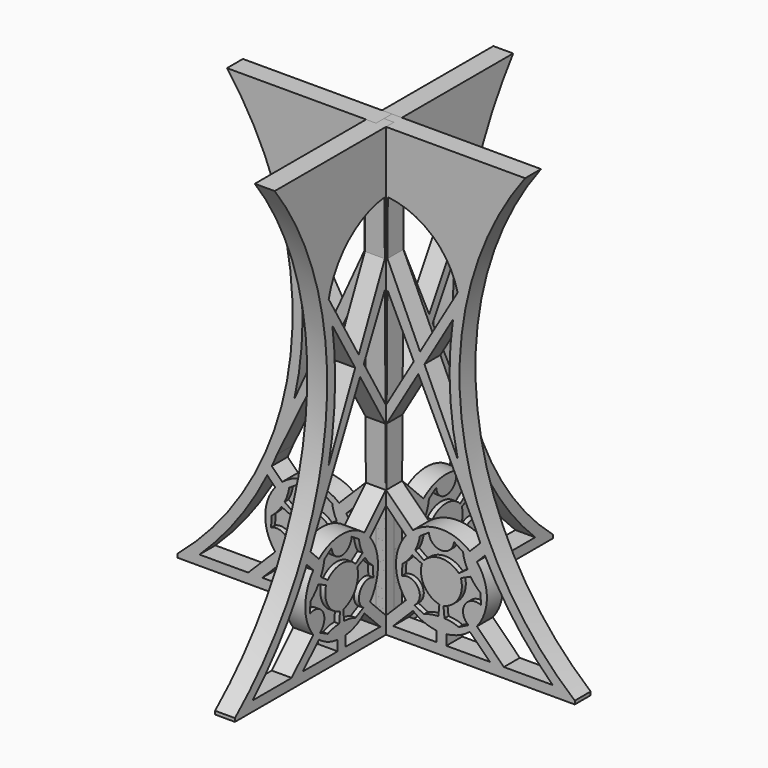
from build123d import *

# Parameters (mm, degrees)
F1_DEPTH      = 2
F1_DEPTH_BACK = 2
F3_COUNT      = 4
F3_ANGLE      = 270
F4_R          = 8.718741745
F6_DEPTH      = 1
F6_DEPTH_BACK = 1
F7_COUNT      = 4
F7_ANGLE      = 270


with BuildPart() as f1:
    # F0 (on Right) → F1 (new body, two sides)
    with BuildSketch(Plane.YZ) as f1_sk:
        with BuildLine():
            Line((0, 90), (-30, 90))
            ThreePointArc((-30, 90), (-17.2003120889, 43.34622274), (-40, 0.6779537991))
            Line((-40, 0.6779537991), (-40, 0))
            Line((-40, 0), (0, 0))
            Line((0, 0), (0, 90))
        make_face()
        with BuildLine():
            Line((-25.7327414086, 2), (-35.5405993869, 2))
            ThreePointArc((-35.5405993869, 2), (-27.9283935316, 10.6626442463), (-21.9059731011, 20.4971516301))
            Line((-21.9059731011, 20.4971516301), (-20.2955077074, 18.8856066293))
            ThreePointArc((-20.2955077074, 18.8856066293), (-22.3105750639, 13.1583554739), (-20.2993462482, 7.4297552174))
            Line((-20.2993462482, 7.4297552174), (-25.7327414086, 2))
        make_face(mode=Mode.SUBTRACT)
        with BuildLine():
            Line((-14.1552877889, 2), (-22.9033660792, 2))
            Line((-22.9033660792, 2), (-18.8856066293, 6.0150678704))
            ThreePointArc((-18.8856066293, 6.0150678704), (-16.6602817808, 4.6974918813), (-14.1552877889, 4.0547771165))
            Line((-14.1552877889, 4.0547771165), (-14.1552877889, 2))
        make_face(mode=Mode.SUBTRACT)
        with BuildLine():
            Line((-16.6618152555, 6.1222817374), (-18.6122404521, 7.0947278683))
            ThreePointArc((-18.6122404521, 7.0947278683), (-17.8389383596, 10.4511808711), (-21.1323629729, 11.4597081156))
            Line((-21.1323629729, 11.4597081156), (-20.9993134278, 13.6350489495))
            ThreePointArc((-20.9993134278, 13.6350489495), (-19.9158795248, 14.6446345056), (-19.0341370726, 15.8344337598))
            Line((-19.0341370726, 15.8344337598), (-17.0775409464, 14.9427615336))
            ThreePointArc((-17.0775409464, 14.9427615336), (-16.6204800926, 11.1546580796), (-13.5684166961, 8.864780042))
            Line((-13.5684166961, 8.864780042), (-13.7745039595, 6.7244819787))
            ThreePointArc((-13.7745039595, 6.7244819787), (-15.2457715651, 6.5557702426), (-16.6618152555, 6.1222817374))
        make_face(mode=Mode.SUBTRACT)
        with BuildLine():
            Line((-7.8956546758, 16.9069476282), (-9.6461635386, 15.658321791))
            ThreePointArc((-9.6461635386, 15.658321791), (-13.1552877889, 17.1565472076), (-16.6644120392, 15.658321791))
            Line((-16.6644120392, 15.658321791), (-18.414920902, 16.9069476282))
            ThreePointArc((-18.414920902, 16.9069476282), (-17.8253957486, 18.2654586185), (-17.4927859612, 19.7085326798))
            Line((-17.4927859612, 19.7085326798), (-15.6754103097, 20.9114273828))
            ThreePointArc((-15.6754103097, 20.9114273828), (-13.1552877889, 18.5635016245), (-10.6351652681, 20.9114273828))
            Line((-10.6351652681, 20.9114273828), (-8.8177896166, 19.7085326798))
            ThreePointArc((-8.8177896166, 19.7085326798), (-8.4851798292, 18.2654586185), (-7.8956546758, 16.9069476282))
        make_face(mode=Mode.SUBTRACT)
        with BuildLine():
            Line((-7.4297552174, 6.0112293296), (-3.4212130927, 2))
            Line((-3.4212130927, 2), (-12.1552877889, 2))
            Line((-12.1552877889, 2), (-12.1552877889, 4.0547771165))
            ThreePointArc((-12.1552877889, 4.0547771165), (-9.6531279684, 4.6963179291), (-7.4297552174, 6.0112293296))
        make_face(mode=Mode.SUBTRACT)
        with BuildLine():
            Line((-5.31126215, 13.6350489495), (-5.1782126049, 11.4597081156))
            ThreePointArc((-5.1782126049, 11.4597081156), (-8.4716372182, 10.4511808711), (-7.6983351257, 7.0947278683))
            Line((-7.6983351257, 7.0947278683), (-9.6487603223, 6.1222817374))
            ThreePointArc((-9.6487603223, 6.1222817374), (-11.0648040127, 6.5557702426), (-12.5360716183, 6.7244819787))
            Line((-12.5360716183, 6.7244819787), (-12.7421588817, 8.864780042))
            ThreePointArc((-12.7421588817, 8.864780042), (-9.6900954852, 11.1546580796), (-9.2330346314, 14.9427615336))
            Line((-9.2330346314, 14.9427615336), (-7.2764385052, 15.8344337598))
            ThreePointArc((-7.2764385052, 15.8344337598), (-6.394696053, 14.6446345056), (-5.31126215, 13.6350489495))
        make_face(mode=Mode.SUBTRACT)
        with BuildLine():
            Line((-1.999999989, 3.4072094877), (-6.0150678704, 7.4249689485))
            ThreePointArc((-6.0150678704, 7.4249689485), (-4.0000005139, 13.1522201039), (-6.0112293296, 18.8808203604))
            Line((-6.0112293296, 18.8808203604), (-2, 22.8893624851))
            Line((-2, 22.8893624851), (-2, 3.4072094877))
        make_face(mode=Mode.SUBTRACT)
        with BuildLine():
            Line((-18.8808203604, 20.2993462482), (-20.9877872685, 22.4077256029))
            ThreePointArc((-20.9877872685, 22.4077256029), (-20.4565558144, 23.5889353751), (-19.9481418942, 24.7801442859))
            Line((-19.9481418942, 24.7801442859), (-8.5133343285, 48.3528648343))
            Line((-8.5133343285, 48.3528648343), (-2.1230393044, 37.4420163971))
            Line((-2.1230393044, 37.4420163971), (-2.0520642774, 25.6648129594))
            Line((-2.0520642774, 25.6648129594), (-7.4249689485, 20.2955077074))
            ThreePointArc((-7.4249689485, 20.2955077074), (-13.1522201039, 22.3105750639), (-18.8808203604, 20.2993462482))
        make_face(mode=Mode.SUBTRACT)
        with BuildLine():
            Line((-9.7440407185, 50.454184232), (-16.4474927484, 35.7879071738))
            ThreePointArc((-16.4474927484, 35.7879071738), (-14.846182039, 47.982119379), (-15.4895860027, 60.2641810395))
            Line((-15.4895860027, 60.2641810395), (-9.7440407185, 50.454184232))
        make_face(mode=Mode.SUBTRACT)
        Polygon((-7.5962813104, 50.2433587846), (-2.2664020758, 61.2308417863), (-2.1440850364, 40.9342287726), align=None, mode=Mode.SUBTRACT)
        with BuildLine():
            ThreePointArc((-16.4158863474, 65.302033458), (-11.3628048298, 73.7293324082), (-2.3655281282, 77.6792706828))
            Line((-2.3655281282, 77.6792706828), (-2.2996126455, 66.7416200443))
            Line((-2.2996126455, 66.7416200443), (-8.8567412124, 52.3954796022))
            Line((-8.8567412124, 52.3954796022), (-16.4158863474, 65.302033458))
        make_face(mode=Mode.SUBTRACT)
    extrude(amount=F1_DEPTH)
    extrude(f1_sk.sketch, amount=-F1_DEPTH_BACK)


with BuildPart() as f3_1:
    # F3: instance of F1
    add(f1.part.rotate(Axis((0, 0, 26.2590656057), (0, 0, -1)), 1 * F3_ANGLE / (F3_COUNT - 1)))


with BuildPart() as f3_2:
    # F3: instance of F1
    add(f1.part.rotate(Axis((0, 0, 26.2590656057), (0, 0, -1)), 2 * F3_ANGLE / (F3_COUNT - 1)))

    # F4 (on Right) → F6 (join, two sides)
    with BuildSketch(Plane.YZ) as f6_sk:
        with Locations((13.1552877889, 13.1552877889)):
            Circle(F4_R)
    extrude(amount=F6_DEPTH)
    extrude(f6_sk.sketch, amount=-F6_DEPTH_BACK)


with BuildPart() as f3_3:
    # F3: instance of F1
    add(f1.part.rotate(Axis((0, 0, 26.2590656057), (0, 0, -1)), 3 * F3_ANGLE / (F3_COUNT - 1)))


with BuildPart() as f7_1:
    # F7: instance of F3_2
    add(f3_2.part.rotate(Axis((0, 0, -9.0715694241), (0, 0, -1)), 1 * F7_ANGLE / (F7_COUNT - 1)))


with BuildPart() as f7_2:
    # F7: instance of F3_2
    add(f3_2.part.rotate(Axis((0, 0, -9.0715694241), (0, 0, -1)), 2 * F7_ANGLE / (F7_COUNT - 1)))


with BuildPart() as f7_3:
    # F7: instance of F3_2
    add(f3_2.part.rotate(Axis((0, 0, -9.0715694241), (0, 0, -1)), 3 * F7_ANGLE / (F7_COUNT - 1)))


solid = Compound([f1.part, f3_1.part, f3_2.part, f3_3.part, f7_1.part, f7_2.part, f7_3.part])
